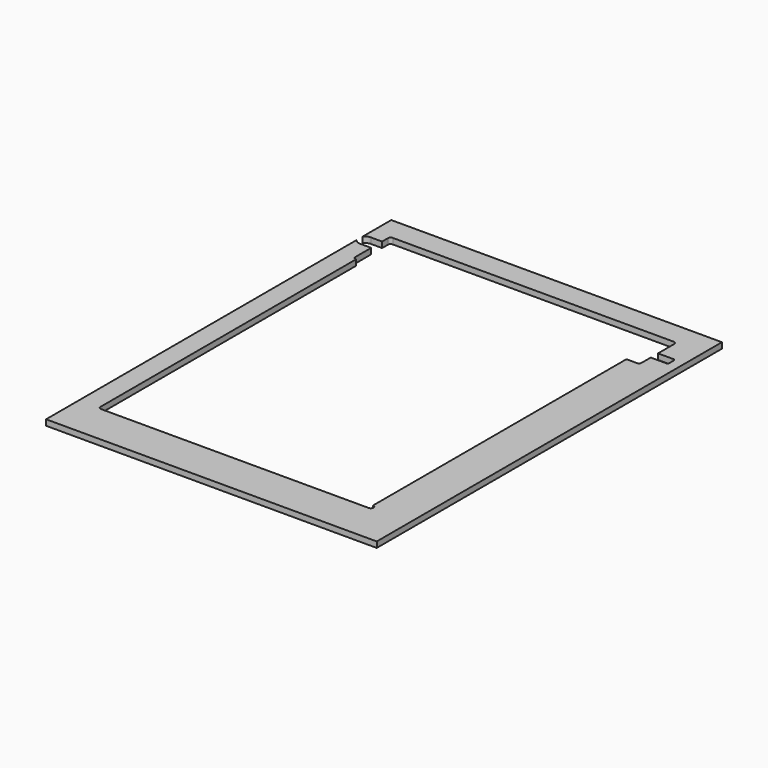
from build123d import *

# Parameters (mm, degrees)
F1_DEPTH = 6.35


with BuildPart() as f1:
    # F0 (on Top) → F1 (new body)
    with BuildSketch(Plane.XY):
        with BuildLine():
            Line((0, -107.95), (0, 0))
            Line((0, 0), (-365, 0))
            Line((-365, 0), (-365, -39.912774))
            ThreePointArc((-365, -39.912774), (-362.265006, -37.252341), (-358.575, -36.281802))
            Line((-358.575, -36.281802), (-346.075, -36.281802))
            Line((-346.075, -36.281802), (-346.075, -28.2))
            ThreePointArc((-346.075, -28.2), (-345.19632, -26.07868), (-343.075, -25.2))
            Line((-343.075, -25.2), (-33, -25.2))
            ThreePointArc((-33, -25.2), (-30.87868, -26.07868), (-30, -28.2))
            Line((-30, -28.2), (-30, -50.7))
            Line((-30, -50.7), (-13, -50.7))
            ThreePointArc((-13, -50.7), (-11.585786, -51.285786), (-11, -52.7))
            Line((-11, -52.7), (-11, -58.7))
            ThreePointArc((-11, -58.7), (-11.585786, -60.114214), (-13, -60.7))
            Line((-13, -60.7), (-30, -60.7))
            Line((-30, -60.7), (-30, -73.2))
            ThreePointArc((-30, -73.2), (-30.87868, -75.32132), (-33, -76.2))
            Line((-33, -76.2), (-44.45, -76.2))
            Line((-44.45, -76.2), (-44.45, -425.800476))
            ThreePointArc((-44.45, -425.800476), (-41.503539, -428.826711), (-44.50342, -431.8))
            Line((-44.50342, -431.8), (-339.9, -431.8))
            ThreePointArc((-339.9, -431.8), (-342.02132, -430.92132), (-342.9, -428.8))
            Line((-342.9, -428.8), (-342.9, -107.95))
            Line((-342.9, -107.95), (-342.9, -76.2))
            Line((-342.9, -76.2), (-343.075, -76.2))
            ThreePointArc((-343.075, -76.2), (-345.19632, -75.32132), (-346.075, -73.2))
            Line((-346.075, -73.2), (-346.075, -51.281802))
            Line((-346.075, -51.281802), (-358.575, -51.281802))
            ThreePointArc((-358.575, -51.281802), (-362.265006, -50.311262), (-365, -47.650829))
            Line((-365, -47.650829), (-365, -107.95))
            Line((-365, -107.95), (-365, -476.25))
            Line((-365, -476.25), (0, -476.25))
            Line((0, -476.25), (0, -107.95))
        make_face()
    extrude(amount=F1_DEPTH)


solid = f1.part
